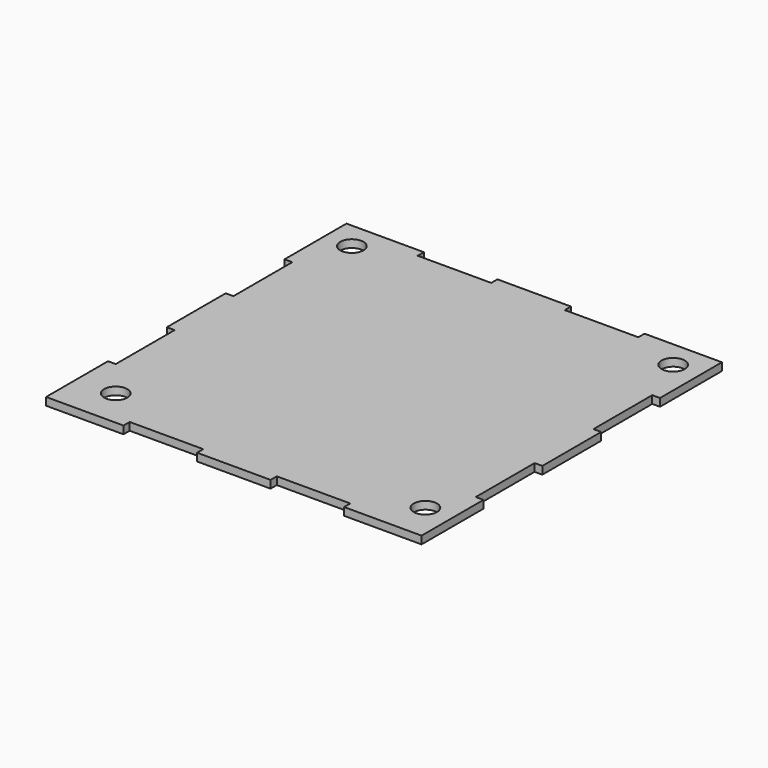
from build123d import *

# Parameters (mm, degrees)
F1_DEPTH = 4
F2_R     = 6
F3_DEPTH = 4


with BuildPart() as f1:
    # F0 (on Top) → F1 (new body)
    with BuildSketch(Plane.XY):
        Polygon((0, 40), (0, 0), (40, 0), (40, 4), (78, 4), (78, 0), (116, 0), (116, 4), (154, 4), (154, 0), (194, 0), (194, 40), (190, 40), (190, 78), (194, 78), (194, 116), (190, 116), (190, 154), (194, 154), (194, 194), (154, 194), (154, 190), (116, 190), (116, 194), (78, 194), (78, 190), (40, 190), (40, 194), (0, 194), (0, 154), (4, 154), (4, 116), (0, 116), (0, 78), (4, 78), (4, 40), align=None)
    extrude(amount=F1_DEPTH)

    # F2 (on face) → F3 (cut)
    with BuildSketch(Plane.XY.offset(4)):
        with Locations((14, 180)):
            Circle(F2_R)
        with Locations((180, 180)):
            Circle(F2_R)
        with Locations((180, 20)):
            Circle(F2_R)
        with Locations((20, 20)):
            Circle(F2_R)
    extrude(amount=-F3_DEPTH, mode=Mode.SUBTRACT)


solid = f1.part
